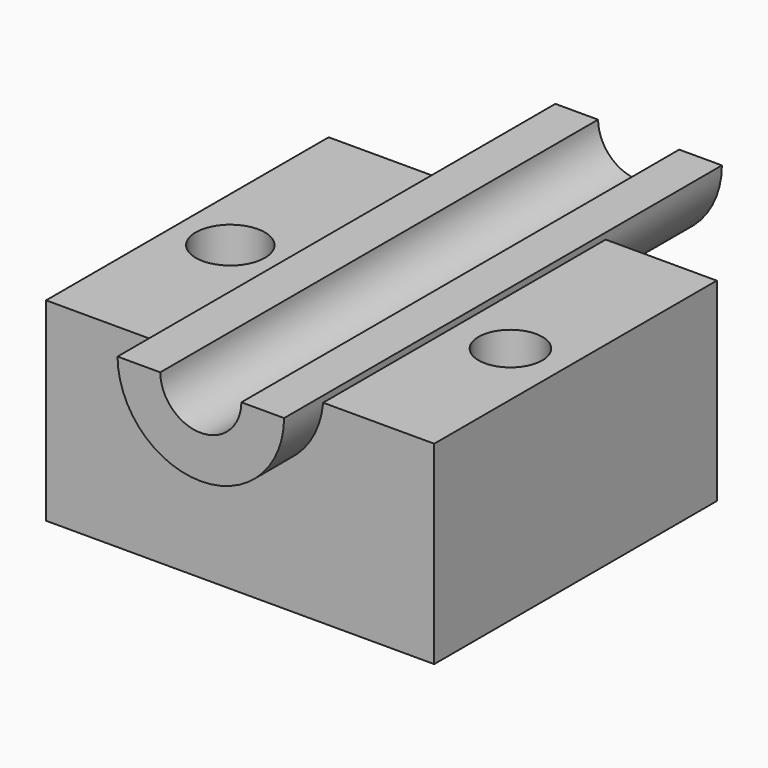
from build123d import *

# Parameters (mm, degrees)
F1_DEPTH = 69.342
F4_DEPTH = 107.442
F6_DEPTH = 136.652
F7_R     = 6.789737
F7_R_2   = 6.259827
F8_DEPTH = 85.344


with BuildPart() as f1:
    # F0 (on Front) → F1 (new body)
    with BuildSketch(Plane.XZ):
        Polygon((0, 38.1), (-38.1, 38.1), (-38.1, 0), (0, 0), (38.1, 0), (38.1, 38.1), align=None)
    extrude(amount=F1_DEPTH)

    # F3 (on offset) → F4 (join)
    with BuildSketch(Plane.XZ.offset(78.994)):
        with BuildLine():
            Line((16.352327, 39.380998), (-16.352311, 39.378844))
            ThreePointArc((-16.352311, 39.378844), (0.001077, 23.146536), (16.352327, 39.380998))
        make_face()
    extrude(amount=-F4_DEPTH)

    # F5 (on offset) → F6 (cut)
    with BuildSketch(Plane.XZ.offset(78.994)):
        with BuildLine():
            Line((0, 39.475866), (-7.966925, 39.475866))
            ThreePointArc((-7.966925, 39.475866), (-0.026347, 31.508984), (7.966751, 39.423171))
            Line((7.966751, 39.423171), (0, 39.475866))
        make_face()
    extrude(amount=-F6_DEPTH, mode=Mode.SUBTRACT)

    # F7 (on Top) → F8 (cut)
    with BuildSketch(Plane.XY):
        with Locations((-27.498437, -37.382606)):
            Circle(F7_R)
        with Locations((27.498439, -37.382606)):
            Circle(F7_R_2)
    extrude(amount=F8_DEPTH, mode=Mode.SUBTRACT)


solid = f1.part
